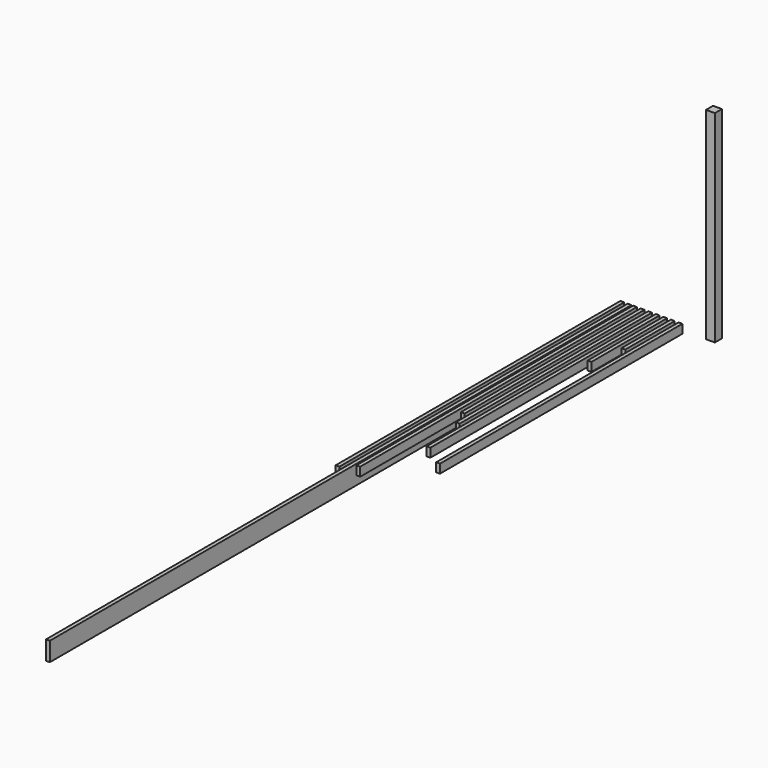
from build123d import *

# Parameters (mm, degrees)
F0_W      = 38.1
F0_H      = 190.5
F1_DEPTH  = 3581.4
F2_W      = 38.1
F2_H      = 190.5
F3_DEPTH  = 7315.2
F4_W      = 38.1
F4_H      = 88.9
F5_DEPTH  = 3479.8
F6_DEPTH  = 2260.6
F7_DEPTH  = 2419.35
F8_DEPTH  = 2882.9
F9_DEPTH  = 952.5
F10_DEPTH = 622.3
F11_W     = 88.9
F11_H     = 88.9
F12_DEPTH = 2032
F13_DEPTH = 3048


with BuildPart() as f1:
    # F0 (on Front) → F1 (new body)
    with BuildSketch(Plane.XZ):
        with Locations((-42.75083, -95.25)):
            Rectangle(F0_W, F0_H)
    extrude(amount=F1_DEPTH)


with BuildPart() as f3:
    # F2 (on Front) → F3 (new body)
    with BuildSketch(Plane.XZ):
        with Locations((30.786382, -95.25)):
            Rectangle(F2_W, F2_H)
    extrude(amount=F3_DEPTH)


with BuildPart() as f5:
    # F4 (on Front) → F5 (new body)
    with BuildSketch(Plane.XZ):
        with Locations((84.98819, -44.45)):
            Rectangle(F4_W, F4_H)
    extrude(amount=F5_DEPTH)


with BuildPart() as f6:
    # F4 (on Front) → F6 (new body)
    with BuildSketch(Plane.XZ):
        with Locations((161.18819, -44.45)):
            Rectangle(F4_W, F4_H)
    extrude(amount=F6_DEPTH)


with BuildPart() as f7:
    # F4 (on Front) → F7 (new body)
    with BuildSketch(Plane.XZ):
        with Locations((237.38819, -44.45)):
            Rectangle(F4_W, F4_H)
    extrude(amount=F7_DEPTH)


with BuildPart() as f8:
    # F4 (on Front) → F8 (new body)
    with BuildSketch(Plane.XZ):
        with Locations((313.58819, -44.45)):
            Rectangle(F4_W, F4_H)
    extrude(amount=F8_DEPTH)


with BuildPart() as f9:
    # F4 (on Front) → F9 (new body)
    with BuildSketch(Plane.XZ):
        with Locations((389.78819, -44.45)):
            Rectangle(F4_W, F4_H)
    extrude(amount=F9_DEPTH)


with BuildPart() as f10:
    # F4 (on Front) → F10 (new body)
    with BuildSketch(Plane.XZ):
        with Locations((465.98819, -44.45)):
            Rectangle(F4_W, F4_H)
    extrude(amount=F10_DEPTH)


with BuildPart() as f12:
    # F11 (on Top) → F12 (new body)
    with BuildSketch(Plane.XY):
        with Locations((915.388897, -44.45)):
            Rectangle(F11_W, F11_H)
    extrude(amount=F12_DEPTH)


with BuildPart() as f13:
    # F4 (on Front) → F13 (new body)
    with BuildSketch(Plane.XZ):
        with Locations((542.18819, -44.45)):
            Rectangle(F4_W, F4_H)
    extrude(amount=F13_DEPTH)


solid = Compound([f1.part, f3.part, f5.part, f6.part, f7.part, f8.part, f9.part, f10.part, f12.part, f13.part])
